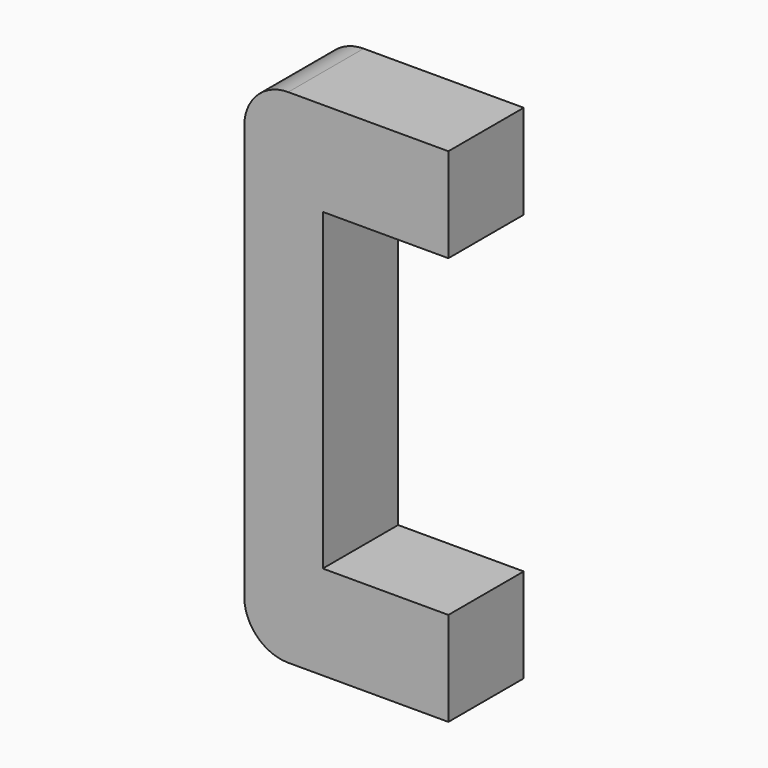
from build123d import *

# Parameters (mm, degrees)
F1_DEPTH = 300


with BuildPart() as f1:
    # F0 (on Front) → F1 (new body)
    with BuildSketch(Plane.XZ):
        with BuildLine():
            ThreePointArc((-216.981573, 889.152828), (-315.976522, 848.147777), (-356.981573, 749.152828))
            Line((-356.981573, 749.152828), (-356.981573, -570.847172))
            ThreePointArc((-356.981573, -570.847172), (-315.976522, -669.842122), (-216.981573, -710.847172))
            Line((-216.981573, -710.847172), (293.018427, -710.847172))
            Line((293.018427, -710.847172), (293.018427, -410.847172))
            Line((293.018427, -410.847172), (-106.981573, -410.847172))
            Line((-106.981573, -410.847172), (-106.981573, 589.152828))
            Line((-106.981573, 589.152828), (293.018427, 589.152828))
            Line((293.018427, 589.152828), (293.018427, 889.152828))
            Line((293.018427, 889.152828), (-216.981573, 889.152828))
        make_face()
    extrude(amount=-F1_DEPTH)


solid = f1.part
